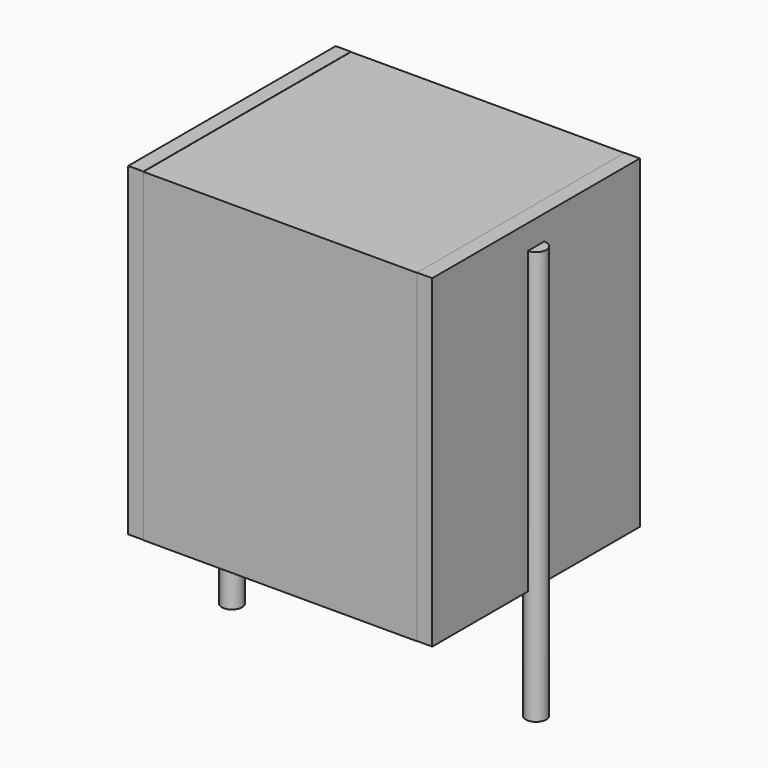
from build123d import *

# Parameters (mm, degrees)
SKETCH_W          = 6.75
SKETCH_H          = 6.4
PAD_DEPTH         = 8
SKETCH001_R       = 0.25
PAD001_DEPTH      = 7
PAD001_DEPTH_BACK = 3.2
SKETCH002_W       = 0.375
SKETCH002_H       = 6.4
PAD002_DEPTH      = 8


with BuildPart() as pad:
    # Sketch → Pad (new body)
    with BuildSketch(Plane.XY.offset(0.1)):
        with Locations((3.75, 0)):
            Rectangle(SKETCH_W, SKETCH_H)
    extrude(amount=PAD_DEPTH)


with BuildPart() as pad001:
    # Sketch001 → Pad001 (new body, two sides)
    with BuildSketch(Plane.XY.offset(0.5)) as pad001_sk:
        Circle(SKETCH001_R)
        with Locations((7.5, 0)):
            Circle(SKETCH001_R)
    extrude(amount=PAD001_DEPTH)
    extrude(pad001_sk.sketch, amount=-PAD001_DEPTH_BACK)


with BuildPart() as pad002:
    # Sketch002 → Pad002 (new body)
    with BuildSketch(Plane.XY.offset(0.105)):
        with Locations((0.1875, 0)):
            Rectangle(SKETCH002_W, SKETCH002_H)
        with Locations((7.3125, 0)):
            Rectangle(SKETCH002_W, SKETCH002_H)
    extrude(amount=PAD002_DEPTH)


solid = Compound([pad.part, pad001.part, pad002.part])
